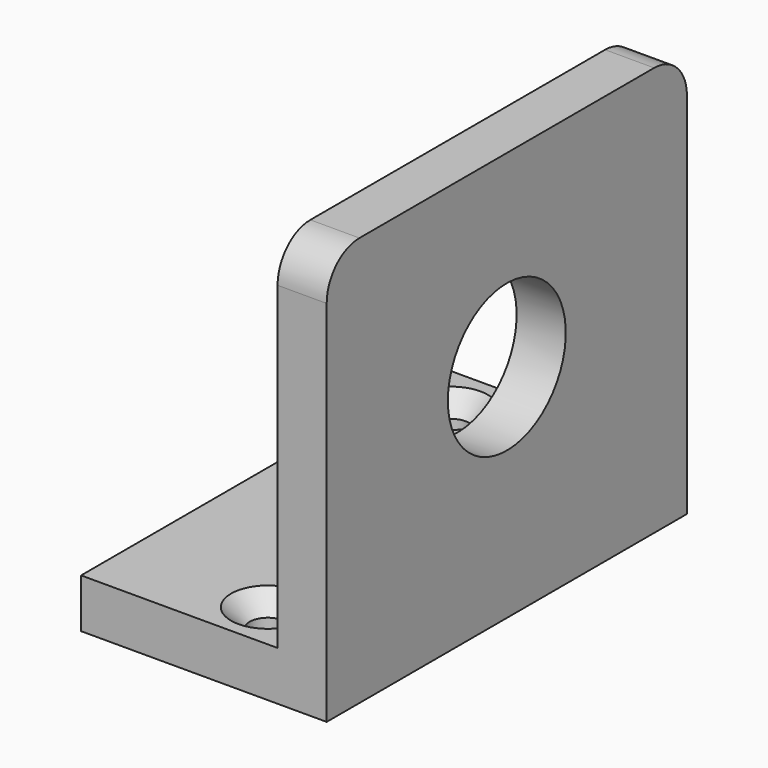
from build123d import *

# Parameters (mm, degrees)
F1_DEPTH       = 55
F2_R           = 5
F3_R           = 9
F4_DEPTH       = 6.001
F6_D           = 4.4
F6_DEPTH       = 18
F6_CSINK_D     = 8.96
F6_CSINK_ANGLE = 90
F6_TIP         = 1.3218933619


with BuildPart() as f1:
    # F0 (on Front) → F1 (new body)
    with BuildSketch(Plane.XZ):
        Polygon((0, 6), (0, 0), (30, 0), (30, 50), (24, 50), (24, 6), align=None)
    extrude(amount=F1_DEPTH)

    # F2
    f2_edges = [f1.edges().sort_by_distance(p)[0] for p in [
        (27, -55, 50),
        (27, 0, 50),
    ]]
    fillet(f2_edges, radius=F2_R)

    # F3 (on face) → F4 (cut, through all)
    with BuildSketch(Plane(origin=(24, 0, 0), x_dir=(0, -1, 0), z_dir=(-1, 0, 0))):
        with Locations((27.5, 27)):
            Circle(F3_R)
    extrude(amount=-F4_DEPTH, mode=Mode.SUBTRACT)

    # F6
    with Locations(Plane.XY.offset(6)):
        with Locations((6, -6), (18, -49)):
            CounterSinkHole(F6_D / 2, F6_CSINK_D / 2, depth=F6_DEPTH, counter_sink_angle=F6_CSINK_ANGLE)
            with Locations((0, 0, -(F6_DEPTH + F6_TIP / 2))):  # 118° drill point
                Cone(0, F6_D / 2, F6_TIP, mode=Mode.SUBTRACT)


solid = f1.part
